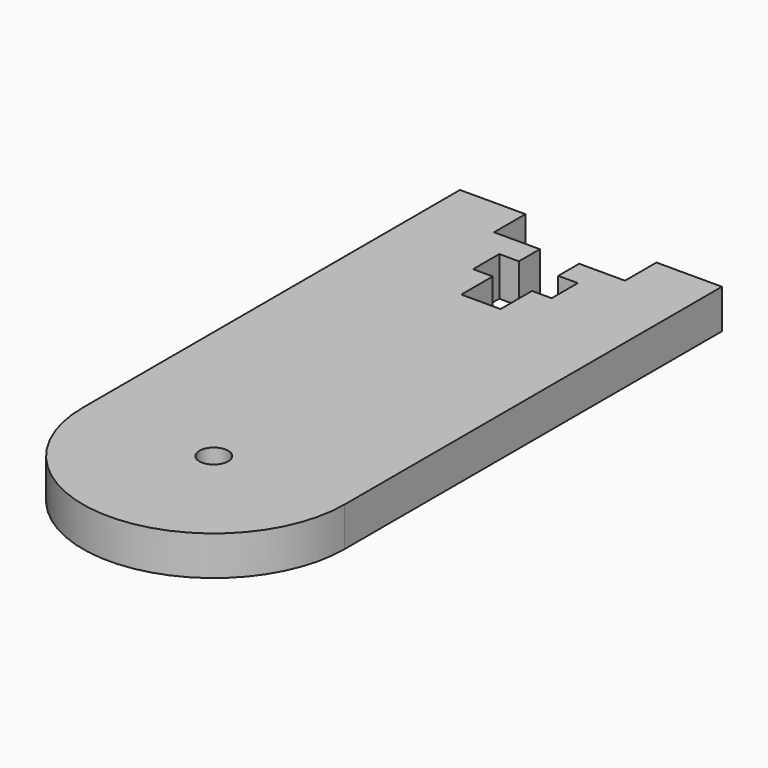
from build123d import *

# Parameters (mm, degrees)
F0_R     = 1.1
F1_DEPTH = 3


with BuildPart() as f1:
    # F0 (on Top) → F1 (new body)
    with BuildSketch(Plane.XY):
        with BuildLine():
            Line((8.5, 0), (5, 0))
            Line((5, 0), (5, 3))
            Line((5, 3), (0, 3))
            Line((0, 3), (0, 0))
            Line((0, 0), (0, -33))
            ThreePointArc((0, -33), (10, -43), (20, -33))
            Line((20, -33), (20, 0))
            Line((20, 0), (20, 3))
            Line((20, 3), (15, 3))
            Line((15, 3), (15, 0))
            Line((15, 0), (11.5, 0))
            Line((11.5, 0), (11.5, -2))
            Line((11.5, -2), (13, -2))
            Line((13, -2), (13, -4.5))
            Line((13, -4.5), (11.5, -4.5))
            Line((11.5, -4.5), (11.5, -7.5))
            Line((11.5, -7.5), (10, -7.5))
            Line((10, -7.5), (8.5, -7.5))
            Line((8.5, -7.5), (8.5, -4.5))
            Line((8.5, -4.5), (7, -4.5))
            Line((7, -4.5), (7, -2))
            Line((7, -2), (8.5, -2))
            Line((8.5, -2), (8.5, 0))
        make_face()
        with Locations((10, -33)):
            Circle(F0_R, mode=Mode.SUBTRACT)
    extrude(amount=F1_DEPTH)


solid = f1.part
